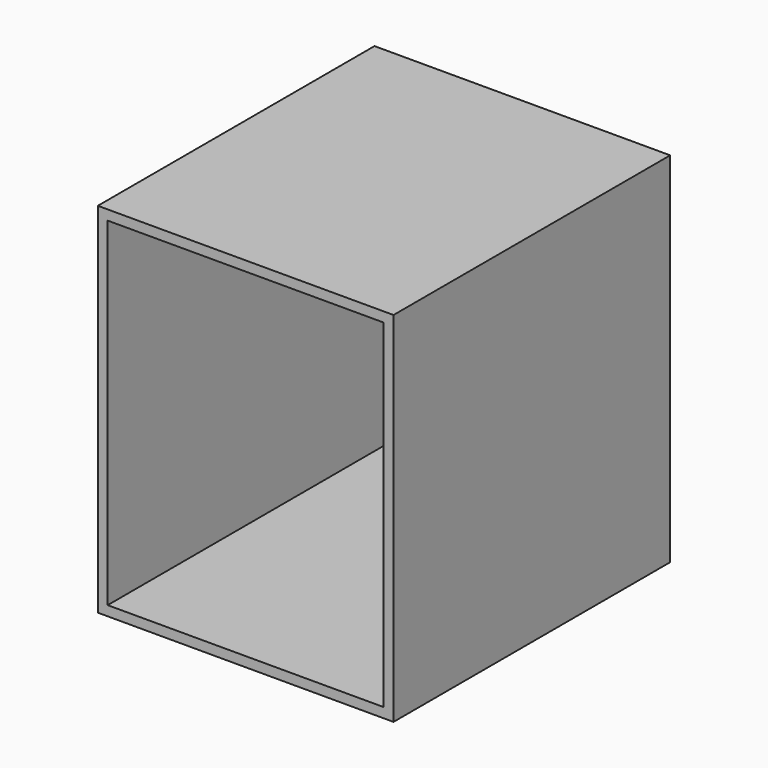
from build123d import *

# Parameters (mm, degrees)
F0_W     = 76.256424
F0_H     = 92.387616
F1_DEPTH = 89.187948
F2_T     = -2.54


with BuildPart() as f1:
    # F0 (on Front) → F1 (new body)
    with BuildSketch(Plane.XZ):
        Rectangle(F0_W, F0_H)
    extrude(amount=F1_DEPTH)

    # F2
    f2_openings = [f1.faces().sort_by_distance(p)[0] for p in [
        (0, -89.187948, 0),
        (0, 0, 0),
    ]]
    offset(amount=F2_T, openings=f2_openings)


solid = f1.part
